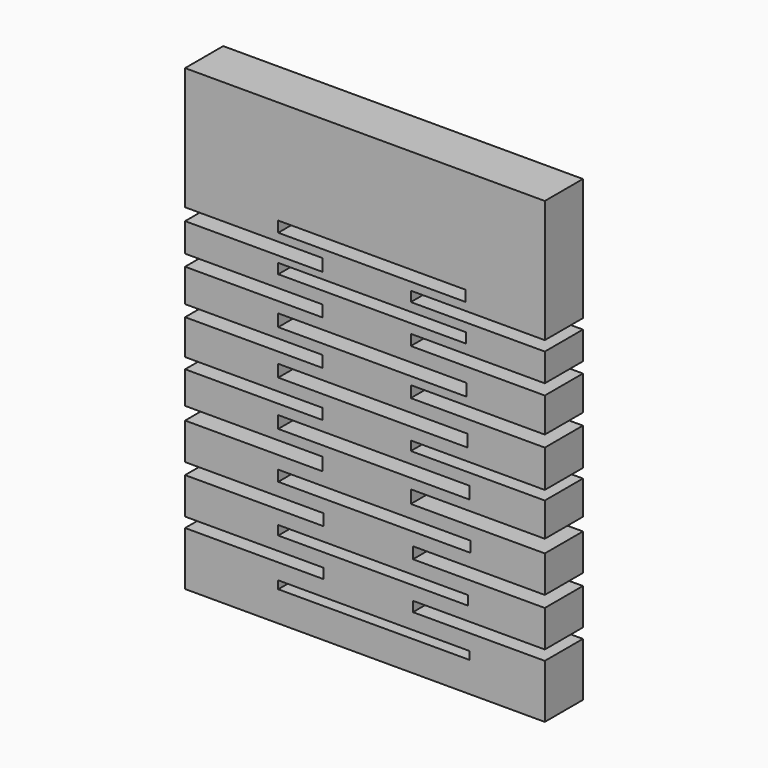
from build123d import *

# Parameters (mm, degrees)
F0_W     = 50.984893
F0_H     = 2.100501
F0_W_2   = 50.602986
F0_H_2   = 2.482414
F0_W_3   = 51.175848
F0_H_3   = 2.86432
F0_H_4   = 3.246229
F0_W_4   = 50.412029
F0_W_5   = 50.221075
F0_W_6   = 50.030118
F0_H_5   = 2.673368
F0_W_7   = 49.839167
F0_H_6   = 2.864324
F1_DEPTH = 12.7


with BuildPart() as f1:
    # F0 (on Front) → F1 (new body)
    with BuildSketch(Plane.XZ):
        Polygon((-48.025098, -41.532639), (-48.025098, -55.854235), (47.834139, -55.854235), (47.834139, -41.532639), (12.698486, -41.532639), (12.698486, -38.859274), (47.834139, -38.859274), (47.834139, -29.120585), (12.698486, -29.120585), (12.698486, -26.06531), (47.834139, -26.06531), (47.834139, -16.326623), (12.125621, -16.326623), (12.125621, -12.889439), (47.834139, -12.889439), (47.834139, -3.91457), (12.125621, -3.91457), (12.125621, -1.43216), (47.834139, -1.43216), (47.834139, 8.497482), (12.125621, 8.497482), (12.125621, 11.552757), (47.834139, 11.552757), (47.834139, 20.71858), (12.125621, 20.71858), (12.125621, 23.5829), (47.834139, 23.5829), (47.834139, 31.030132), (12.125621, 31.030132), (12.125621, 33.703495), (47.834139, 33.703495), (47.834139, 66.356741), (-48.025098, 66.356741), (-48.025098, 33.703495), (-11.361802, 33.703495), (-11.361802, 30.457268), (-48.025098, 30.457268), (-48.025098, 22.819081), (-11.361802, 22.819081), (-11.361802, 19.763807), (-48.025098, 19.763807), (-48.025098, 10.979893), (-11.361802, 10.979893), (-11.361802, 7.924618), (-48.025098, 7.924618), (-48.025098, -1.43216), (-11.361802, -1.43216), (-11.361802, -4.29648), (-48.025098, -4.29648), (-48.025098, -12.889439), (-11.361802, -12.889439), (-11.361802, -16.326623), (-48.025098, -16.326623), (-48.025098, -26.06531), (-11.170847, -26.06531), (-11.170847, -29.120585), (-48.025098, -29.120585), (-48.025098, -38.859274), (-11.170847, -38.859274), (-11.170847, -41.532639), align=None)
        with Locations((2.291455, -46.783892)):
            Rectangle(F0_W, F0_H, mode=Mode.SUBTRACT)
        with Locations((2.100502, -33.989929)):
            Rectangle(F0_W_2, F0_H_2, mode=Mode.SUBTRACT)
        with Locations((2.386933, -21.195967)):
            Rectangle(F0_W_3, F0_H_3, mode=Mode.SUBTRACT)
        with Locations((2.291455, -8.592959)):
            Rectangle(F0_W, F0_H_4, mode=Mode.SUBTRACT)
        with Locations((2.005024, 3.437183)):
            Rectangle(F0_W_4, F0_H_4, mode=Mode.SUBTRACT)
        with Locations((1.909546, 15.276373)):
            Rectangle(F0_W_5, F0_H_4, mode=Mode.SUBTRACT)
        with Locations((1.814068, 27.401994)):
            Rectangle(F0_W_6, F0_H_5, mode=Mode.SUBTRACT)
        with Locations((1.718592, 37.236158)):
            Rectangle(F0_W_7, F0_H_6, mode=Mode.SUBTRACT)
    extrude(amount=F1_DEPTH)


solid = f1.part
